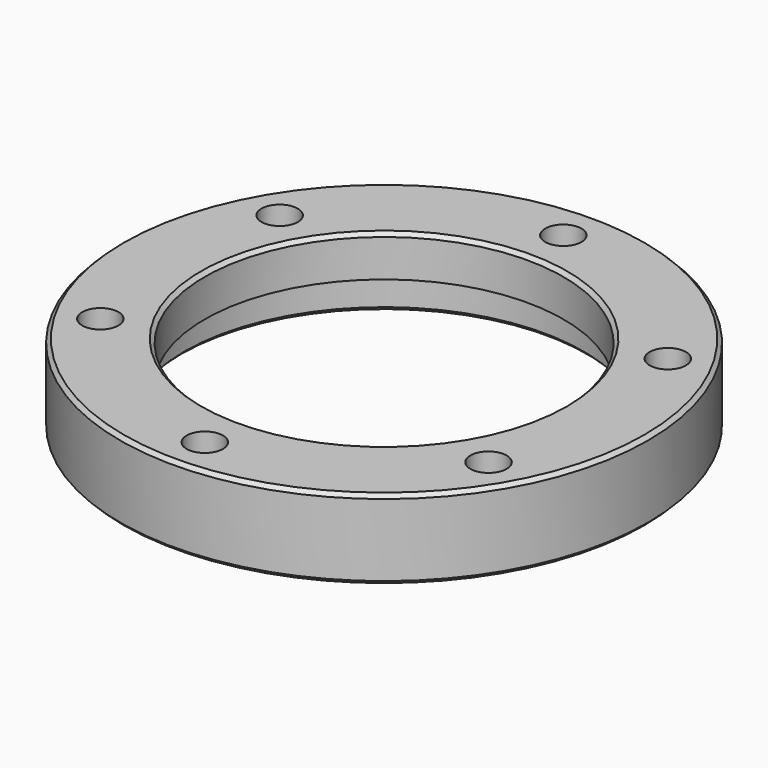
from build123d import *

# Parameters (mm, degrees)
CYLINDER014005880_R                            = 40.05
CYLINDER014005880_DEPTH                        = 16
CYLINDER014005882_R                            = 3.65
CYLINDER014005882_DEPTH                        = 4
CYLINDER014005881_R                            = 2.15
CYLINDER014005881_DEPTH                        = 24
FUSION001089102007007003008015_PLACEMENT_ANGLE = 60
FUSION001089102007007003008011_PLACEMENT_ANGLE = 120
FUSION001089102007007003008009_PLACEMENT_ANGLE = 180
FUSION001089102007007003008012_PLACEMENT_ANGLE = 240
FUSION001089102007007003008014_PLACEMENT_ANGLE = 60
FUSION001089102007007003008010_PLACEMENT_ANGLE = 30
CYLINDER014005879_R                            = 36
CYLINDER014005879_DEPTH                        = 16
CYLINDER014005878_R                            = 53
CYLINDER014005878_DEPTH                        = 16
CHAMFER013_SIZE                                = 0.75


with BuildPart() as obj1:
    # Cylinder014005880 → Cylinder014005880 (new body)
    with BuildSketch(Plane.XY.offset(-0.25)):
        Circle(CYLINDER014005880_R)
    extrude(amount=CYLINDER014005880_DEPTH)


with BuildPart() as obj2:
    # Cylinder014005882 → Cylinder014005882 (new body)
    with BuildSketch(Plane(origin=(45, 0, 4), x_dir=(1, 0, 0), z_dir=(0, 0, 1))):
        Circle(CYLINDER014005882_R)
    extrude(amount=CYLINDER014005882_DEPTH)


with BuildPart() as obj3:
    # Cylinder014005881 → Cylinder014005881 (new body)
    with BuildSketch(Plane(origin=(45, 0, -16), x_dir=(1, 0, 0), z_dir=(0, 0, 1))):
        Circle(CYLINDER014005881_R)
    extrude(amount=CYLINDER014005881_DEPTH)

    # Fusion001089102007007003008013: union obj2
    add(obj2.part)


with BuildPart() as obj4:
    # Fusion001089102007007003008015 base: copy of obj3
    add(obj3.part)


with BuildPart() as obj4_1:
    # Fusion001089102007007003008015 placement: moved
    add(obj4.part.rotate(Axis((0, 0, 0), (0, 0, 1)), FUSION001089102007007003008015_PLACEMENT_ANGLE))


with BuildPart() as obj5:
    # Fusion001089102007007003008011 base: copy of obj3
    add(obj3.part)


with BuildPart() as obj5_1:
    # Fusion001089102007007003008011 placement: moved
    add(obj5.part.rotate(Axis((0, 0, 0), (0, 0, 1)), FUSION001089102007007003008011_PLACEMENT_ANGLE))


with BuildPart() as obj6:
    # Fusion001089102007007003008009 base: copy of obj3
    add(obj3.part)


with BuildPart() as obj6_1:
    # Fusion001089102007007003008009 placement: moved
    add(obj6.part.rotate(Axis((0, 0, 0), (0, 0, 1)), FUSION001089102007007003008009_PLACEMENT_ANGLE))


with BuildPart() as obj7:
    # Fusion001089102007007003008012 base: copy of obj3
    add(obj3.part)


with BuildPart() as obj7_1:
    # Fusion001089102007007003008012 placement: moved
    add(obj7.part.rotate(Axis((0, 0, 0), (0, 0, 1)), FUSION001089102007007003008012_PLACEMENT_ANGLE))


with BuildPart() as obj8:
    # Fusion001089102007007003008014 base: copy of obj3
    add(obj3.part)


with BuildPart() as obj8_1:
    # Fusion001089102007007003008014 placement: moved
    add(obj8.part.rotate(Axis((0, 0, 0), (0, 0, -1)), FUSION001089102007007003008014_PLACEMENT_ANGLE))


with BuildPart() as fusion001089102007007003008010:
    # Fusion001089102007007003008010 base: copy of obj3
    add(obj3.part)

    # Fusion001089102007007003008010: union obj4, obj5, obj6, obj7, obj8
    add(obj4_1.part)
    add(obj5_1.part)
    add(obj6_1.part)
    add(obj7_1.part)
    add(obj8_1.part)


with BuildPart() as fusion001089102007007003008010_1:
    # Fusion001089102007007003008010 placement: moved
    add(fusion001089102007007003008010.part.moved(Location((0, 0, 16))).rotate(Axis((0, 0, 16), (0, 0, 1)), FUSION001089102007007003008010_PLACEMENT_ANGLE))


with BuildPart() as fusion001089102007007003008016:
    # Cylinder014005879 → Cylinder014005879 (new body)
    with BuildSketch(Plane.XY.offset(8)):
        Circle(CYLINDER014005879_R)
    extrude(amount=CYLINDER014005879_DEPTH)

    # Fusion001089102007007003008016: union obj1, Fusion001089102007007003008010
    add(obj1.part)
    add(fusion001089102007007003008010_1.part)


with BuildPart() as obj9:
    # Cylinder014005878 → Cylinder014005878 (new body)
    with BuildSketch(Plane.XY.offset(8)):
        Circle(CYLINDER014005878_R)
    extrude(amount=CYLINDER014005878_DEPTH)

    # Cut009003003009003002: cut Fusion001089102007007003008016
    add(fusion001089102007007003008016.part, mode=Mode.SUBTRACT)

    # Chamfer013
    chamfer013_edges = [obj9.edges().sort_by_distance(p)[0] for p in [
        (-53, 0, 24),
        (-53, 0, 8),
        (-36, 0, 24),
        (-40.05, 0, 8),
    ]]
    chamfer(chamfer013_edges, length=CHAMFER013_SIZE)


solid = obj9.part
